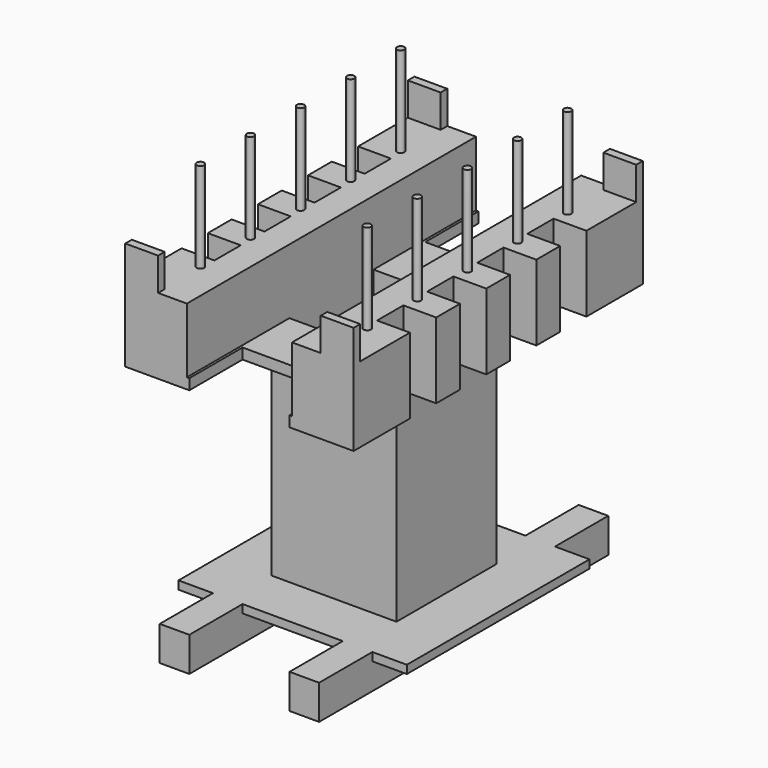
from build123d import *

# Parameters (mm, degrees)
F0_W           = 13.9
F0_H           = 22
F1_DEPTH       = 19.8
F4_W           = 13.9
F4_H           = 22
F4_W_2         = 7.6
F4_H_2         = 7.6
F5_DEPTH       = 13.1
F6_W           = 6.4
F6_H           = 6.4
F7_DEPTH       = 19.801
F8_W           = 2.1
F8_H           = 22
F8_W_2         = 6.1
F9_DEPTH       = 1.6
F10_W          = 2.1
F10_H          = 4.05
F10_W_2        = 6.1
F11_DEPTH      = 0.5
F12_W          = 6.1
F12_H          = 4.05
F12_W_2        = 2
F12_H_2        = 2
F13_DEPTH      = 4.6
F14_W          = 6.4
F14_H          = 3.9517926995
F15_DEPTH      = 11.001
F15_DEPTH_BACK = 11.001
F16_R          = 0.225
F17_DEPTH      = 5.5
F18_W          = 2
F18_H          = 0.5
F19_DEPTH      = 2


with BuildPart() as f1:
    # F0 (on Top) → F1 (new body)
    with BuildSketch(Plane.XY):
        Rectangle(F0_W, F0_H)
    extrude(amount=F1_DEPTH)

    # F4 (on offset) → F5 (cut, through all)
    with BuildSketch(Plane(origin=(0, 0, 2.1), x_dir=(1, 0, 0), z_dir=(0, 0, -1))):
        Rectangle(F4_W, F4_H)
        Rectangle(F4_W_2, F4_H_2, mode=Mode.SUBTRACT)
    extrude(amount=-F5_DEPTH, mode=Mode.SUBTRACT)

    # F6 (on face) → F7 (cut, through all)
    with BuildSketch(Plane.XY.offset(19.8)):
        Rectangle(F6_W, F6_H)
    extrude(amount=-F7_DEPTH, mode=Mode.SUBTRACT)

    # F8 (on face) → F9 (cut)
    with BuildSketch(Plane(origin=(0, 0, 0), x_dir=(1, 0, 0), z_dir=(0, 0, -1))):
        with Locations((-5.9, 0)):
            Rectangle(F8_W, F8_H)
        Rectangle(F8_W_2, F8_H)
        with Locations((5.9, 0)):
            Rectangle(F8_W, F8_H)
    extrude(amount=-F9_DEPTH, mode=Mode.SUBTRACT)

    # F10 (on face) → F11 (cut, through all)
    with BuildSketch(Plane.XY.offset(2.1)):
        with Locations((5.9, 8.975)):
            Rectangle(F10_W, F10_H)
        with Locations((5.9, -8.975)):
            Rectangle(F10_W, F10_H)
        with Locations((0, -8.975)):
            Rectangle(F10_W_2, F10_H)
        with Locations((-5.9, -8.975)):
            Rectangle(F10_W, F10_H)
        with Locations((-5.9, 8.975)):
            Rectangle(F10_W, F10_H)
        with Locations((0, 8.975)):
            Rectangle(F10_W_2, F10_H)
    extrude(amount=-F11_DEPTH, mode=Mode.SUBTRACT)

    # F12 (on face) → F13 (cut, through all)
    with BuildSketch(Plane(origin=(0, 0, 15.2), x_dir=(1, 0, 0), z_dir=(0, 0, -1))):
        with Locations((0, -8.975)):
            Rectangle(F12_W, F12_H)
        with Locations((5.95, -5.715)):
            Rectangle(F12_W_2, F12_H_2)
        with Locations((5.95, -1.905)):
            Rectangle(F12_W_2, F12_H_2)
        with Locations((5.95, 1.905)):
            Rectangle(F12_W_2, F12_H_2)
        with Locations((5.95, 5.715)):
            Rectangle(F12_W_2, F12_H_2)
        with Locations((-5.95, 5.715)):
            Rectangle(F12_W_2, F12_H_2)
        with Locations((0, 8.975)):
            Rectangle(F12_W, F12_H)
        with Locations((-5.95, 1.905)):
            Rectangle(F12_W_2, F12_H_2)
        with Locations((-5.95, -1.905)):
            Rectangle(F12_W_2, F12_H_2)
        with Locations((-5.95, -5.715)):
            Rectangle(F12_W_2, F12_H_2)
    extrude(amount=-F13_DEPTH, mode=Mode.SUBTRACT)

    # F14 (on Front) → F15 (cut, two sides)
    with BuildSketch(Plane.XZ) as f15_sk:
        with Locations((0, 17.8241036503)):
            Rectangle(F14_W, F14_H)
    extrude(amount=-F15_DEPTH, mode=Mode.SUBTRACT)
    extrude(f15_sk.sketch, amount=F15_DEPTH_BACK, mode=Mode.SUBTRACT)

    # F16 (on face) → F17 (join)
    with BuildSketch(Plane.XY.offset(19.8)):
        with Locations((5.08, 7.62)):
            Circle(F16_R)
        with Locations((5.08, 3.81)):
            Circle(F16_R)
        with Locations((5.08, 0)):
            Circle(F16_R)
        with Locations((5.08, -3.81)):
            Circle(F16_R)
        with Locations((5.08, -7.62)):
            Circle(F16_R)
        with Locations((-5.08, -7.62)):
            Circle(F16_R)
        with Locations((-5.08, -3.81)):
            Circle(F16_R)
        with Locations((-5.08, 0)):
            Circle(F16_R)
        with Locations((-5.08, 3.81)):
            Circle(F16_R)
        with Locations((-5.08, 7.62)):
            Circle(F16_R)
    extrude(amount=F17_DEPTH)

    # F18 (on face) → F19 (join)
    with BuildSketch(Plane.XY.offset(19.8)):
        with Locations((-5.95, 10.75)):
            Rectangle(F18_W, F18_H)
        with Locations((-5.95, -10.75)):
            Rectangle(F18_W, F18_H)
        with Locations((5.95, -10.75)):
            Rectangle(F18_W, F18_H)
        with Locations((5.95, 10.75)):
            Rectangle(F18_W, F18_H)
    extrude(amount=F19_DEPTH)


solid = f1.part
